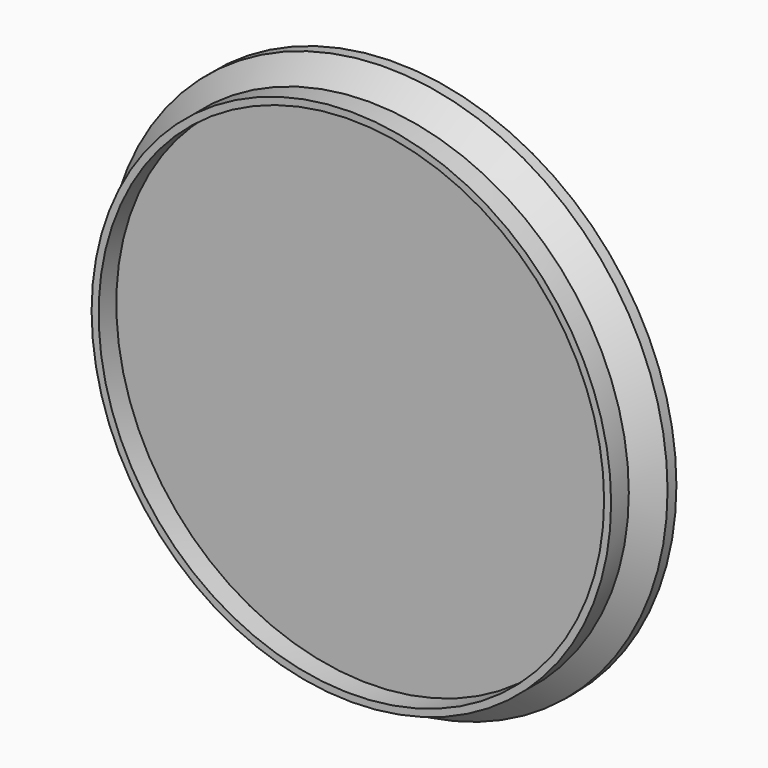
from build123d import *

# Parameters (mm, degrees)
F2_SIZE  = 2
F3_R     = 23.495
F3_R_2   = 22.86
F4_DEPTH = 2


with BuildPart() as f1:
    # F0 (on Top) → F1 (revolve)
    with BuildSketch(Plane.XY):
        Polygon((0, 3), (0, 0), (25.4, 0), (25.4, 3), (19.936919, 3), (19.936919, 2.25), (18.997, 2.25), (18.997, 2.5), (18.75, 2.5), (18.75, 2.75), (18.5, 2.75), (18.5, 3), (18.246, 3), (18.246, 2.25), (17.989, 2.25), (17.989, 2.5), (17.728, 2.5), (17.728, 2.75), (17.463, 2.75), (17.463, 3), (17.194, 3), (17.194, 2.25), (16.922, 2.25), (16.922, 2.5), (16.645, 2.5), (16.645, 2.75), (16.363, 2.75), (16.363, 3), (16.077, 3), (16.077, 2.25), (15.785, 2.25), (15.785, 2.5), (15.488, 2.5), (15.488, 2.75), (15.186, 2.75), (15.186, 3), (14.877, 3), (14.877, 2.25), (14.562, 2.25), (14.562, 2.5), (14.241, 2.5), (14.241, 2.75), (13.912, 2.75), (13.912, 3), (13.575, 3), (13.575, 2.25), (13.23, 2.25), (13.23, 2.5), (12.875, 2.5), (12.875, 2.75), (12.510997, 2.75), (12.510997, 3), (12.136, 3), (12.136, 2.25), (11.749, 2.25), (11.749, 2.5), (11.35, 2.5), (11.35, 2.75), (10.936, 2.75), (10.936, 3), (10.505, 3), (10.505, 2.25), (10.057, 2.25), (10.057, 2.5), (9.588, 2.5), (9.588, 2.75), (9.095, 2.75), (9.095, 3), (8.584906, 3), (8.573998, 2.25), (8.019, 2.25), (8.019, 2.5), (7.423, 2.5), (7.423, 2.75), (6.776, 2.75), (6.776, 3), (6.06, 3), (6.06, 2.25), (5.247, 2.25), (5.247, 2.5), (4.284, 2.5), (4.284, 2.75), (3.029, 2.75), (3.029, 3), align=None)
    revolve(axis=Axis((0, 1.5, 0), (0, 1, 0)))

    # F2
    f2_edges = [f1.edges().sort_by_distance(p)[0] for p in [
        (-25.4, 0, 0),
    ]]
    chamfer(f2_edges, length=F2_SIZE)

    # F3 (on Front) → F4 (join)
    with BuildSketch(Plane.XZ):
        Circle(F3_R)
        Circle(F3_R_2, mode=Mode.SUBTRACT)
    extrude(amount=F4_DEPTH)


solid = f1.part
